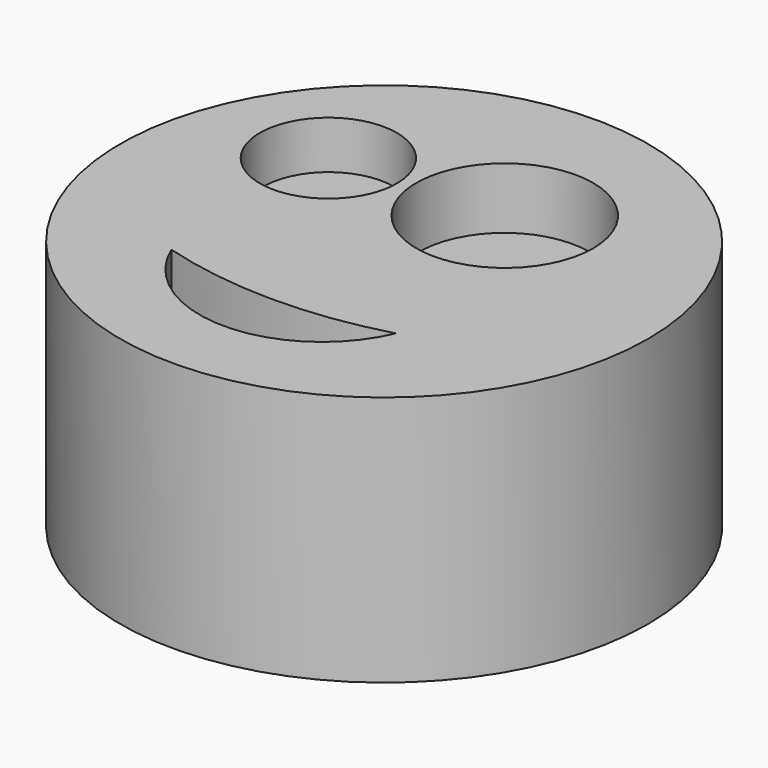
from build123d import *

# Parameters (mm, degrees)
F1_R     = 26.709428
F1_R_2   = 6.930794
F1_R_3   = 8.952861
F2_DEPTH = 25.4
F5_DEPTH = 9.06525
F3_R     = 6.612231
F6_DEPTH = 20.76191
F7_R     = 8.580999
F8_DEPTH = 19.33853


with BuildPart() as f2:
    # F1 (on face) → F2 (new body)
    with BuildSketch(Plane.XY):
        with Locations((-50.198372, -15.352337)):
            Circle(F1_R)
        with Locations((-62.539048, -6.975438)):
            Circle(F1_R_2, mode=Mode.SUBTRACT)
        with Locations((-45.512266, -5.95345)):
            Circle(F1_R_3, mode=Mode.SUBTRACT)
    extrude(amount=F2_DEPTH)

    # F4 (on face) → F5 (cut)
    with BuildSketch(Plane.XY.offset(25.4)):
        with BuildLine():
            ThreePointArc((-39.636977, -27.05759), (-51.045704, -28.602566), (-62.439963, -26.954271))
            ThreePointArc((-62.439963, -26.954271), (-51.072744, -34.570419), (-39.636977, -27.05759))
        make_face()
    extrude(amount=-F5_DEPTH, mode=Mode.SUBTRACT)


with BuildPart() as f6:
    # F3 (on face) → F6 (new body)
    with BuildSketch(Plane.XY):
        with Locations((-62.468447, -7.042727)):
            Circle(F3_R)
    extrude(amount=F6_DEPTH)


with BuildPart() as f8:
    # F7 (on face) → F8 (new body)
    with BuildSketch(Plane.XY):
        with Locations((-45.612082, -5.888182)):
            Circle(F7_R)
    extrude(amount=F8_DEPTH)


solid = Compound([f2.part, f6.part, f8.part])
